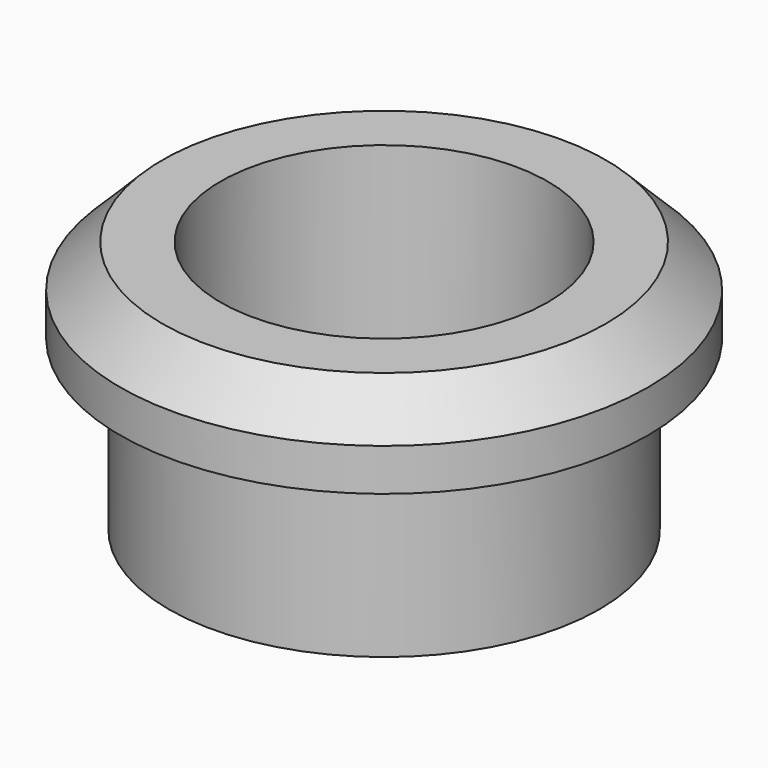
from build123d import *

# Parameters (mm, degrees)
F0_R     = 5.1
F0_R_2   = 3.875
F1_DEPTH = 6
F2_START = 4
F0_R_3   = 6.25
F2_DEPTH = 2
F3_SIZE  = 1


with BuildPart() as f1:
    # F0 (on Top) → F1 (new body)
    with BuildSketch(Plane.XY):
        Circle(F0_R)
        Circle(F0_R_2, mode=Mode.SUBTRACT)
    extrude(amount=F1_DEPTH)

    # F0 (on Top) → F2 (join)
    with BuildSketch(Plane.XY.offset(F2_START)):
        Circle(F0_R_3)
        Circle(F0_R, mode=Mode.SUBTRACT)
    extrude(amount=F2_DEPTH)

    # F3
    f3_edges = [f1.edges().sort_by_distance(p)[0] for p in [
        (-6.25, 0, 6),
    ]]
    chamfer(f3_edges, length=F3_SIZE)


solid = f1.part
